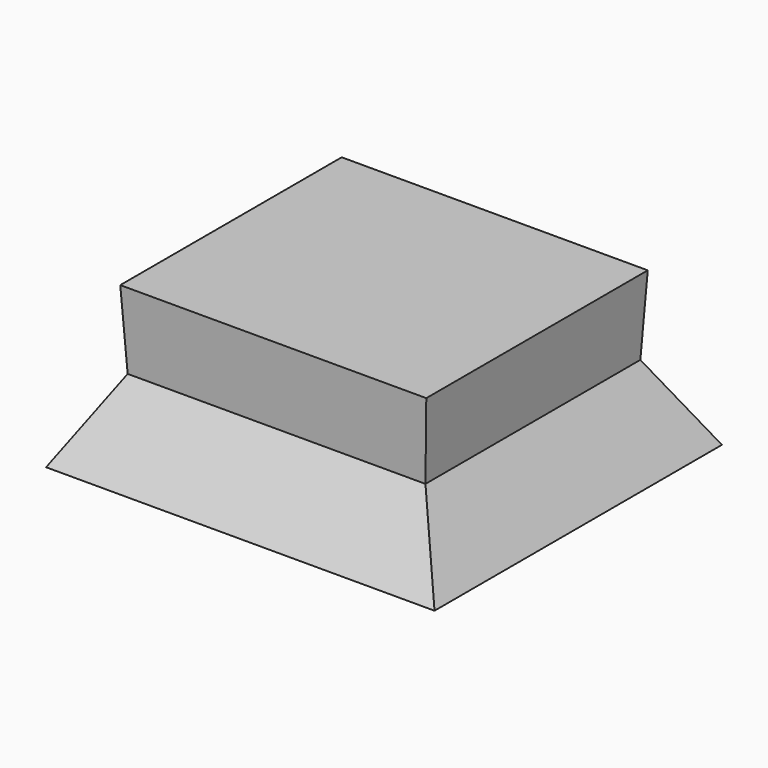
from build123d import *

# Parameters (mm, degrees)
F0_W          = 96.3600222021
F0_H          = 86.9082435966
F1_DEPTH      = 25.4
F1_TAPER      = -3
F1_DEPTH_BACK = 25.4
F1_TAPER_BACK = -30


with BuildPart() as f1:
    # F0 (on Top) → F1 (new body, two sides)
    with BuildSketch(Plane.XY) as f1_sk:
        with Locations((-55.5346189067, -3.5545825958)):
            Rectangle(F0_W, F0_H)
    extrude(amount=F1_DEPTH, taper=F1_TAPER)
    extrude(f1_sk.sketch, amount=-F1_DEPTH_BACK, taper=F1_TAPER_BACK)


solid = f1.part
